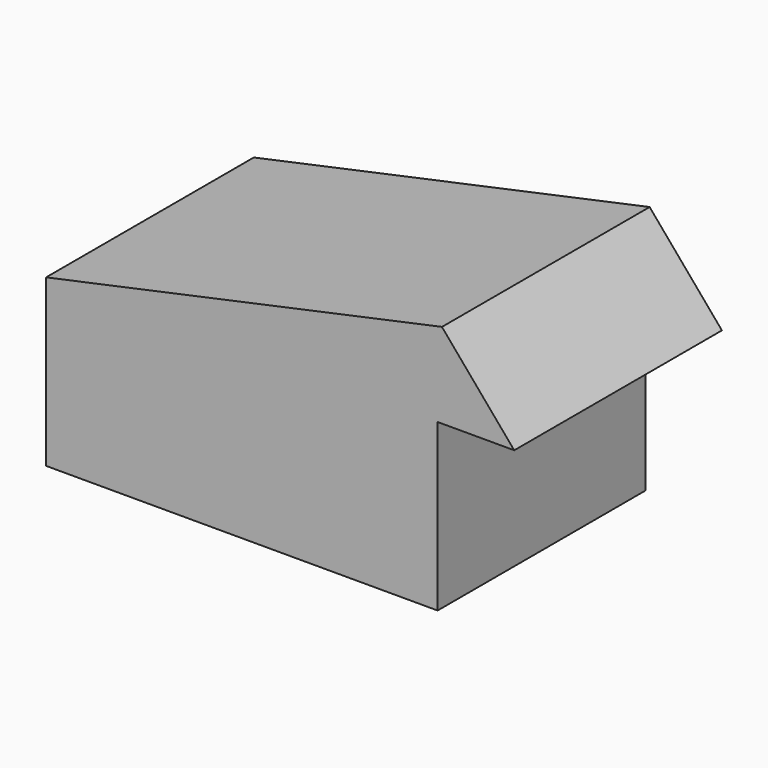
from build123d import *

# Parameters (mm, degrees)
F0_W     = 1100
F0_H     = 610
F1_DEPTH = 590
F2_W     = 180
F2_H     = 390
F3_DEPTH = 610


with BuildPart() as f1:
    # F0 (on Top) → F1 (new body)
    with BuildSketch(Plane.XY):
        Rectangle(F0_W, F0_H)
    extrude(amount=F1_DEPTH)

    # F2 (on face) → F3 (cut, through all)
    with BuildSketch(Plane.XZ.offset(305)):
        Polygon((-550, 390), (380.144984, 590), (-550, 590), align=None)
        Polygon((380.144984, 590), (550, 390), (550, 590), align=None)
        with Locations((460, 195)):
            Rectangle(F2_W, F2_H)
    extrude(amount=-F3_DEPTH, mode=Mode.SUBTRACT)


solid = f1.part
